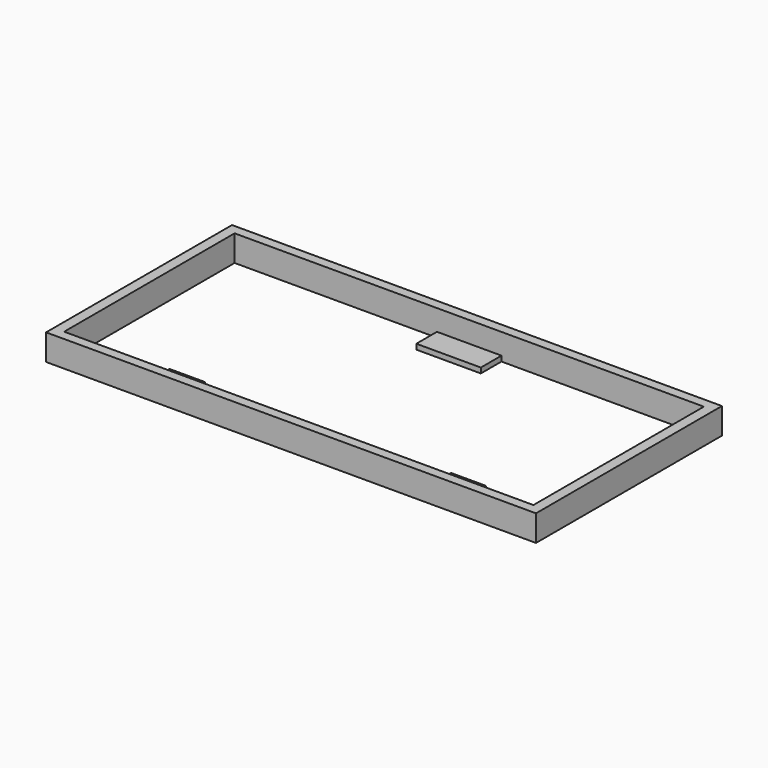
from build123d import *

# Parameters (mm, degrees)
F0_W     = 93.846314
F0_H     = 44.516842
F0_W_2   = 89.889378
F0_H_2   = 40.80934
F1_DEPTH = 5
F2_W     = 12.35856
F2_H     = 6.520443
F2_W_2   = 6.827742
F2_H_2   = 7.738157
F2_W_3   = 6.702413
F2_H_3   = 7.531111
F3_DEPTH = 1


with BuildPart() as f1:
    # F0 (on Top) → F1 (new body)
    with BuildSketch(Plane.XY):
        Rectangle(F0_W, F0_H)
        Rectangle(F0_W_2, F0_H_2, mode=Mode.SUBTRACT)
    extrude(amount=F1_DEPTH)

    # F2 (on Top) → F3 (join)
    with BuildSketch(Plane.XY):
        with Locations((0, 18.721528)):
            Rectangle(F2_W, F2_H)
        with Locations((-26.51052, -17.850101)):
            Rectangle(F2_W_2, F2_H_2)
        with Locations((27.371847, -17.746578)):
            Rectangle(F2_W_3, F2_H_3)
    extrude(amount=F3_DEPTH)


solid = f1.part
